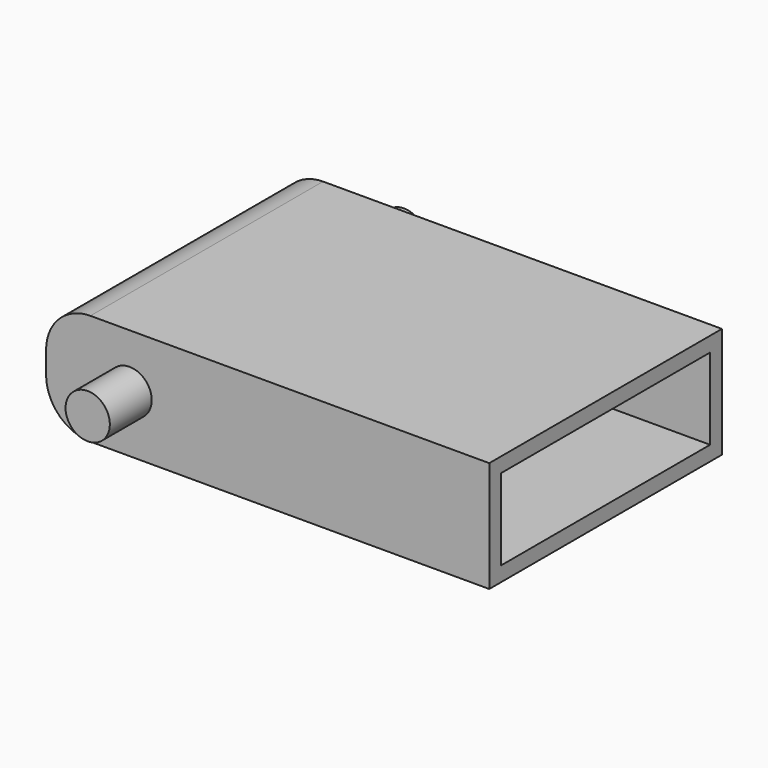
from build123d import *

# Parameters (mm, degrees)
F1_DEPTH = 50
F2_T     = -2.54
F3_R     = 3.81
F4_DEPTH = 9
F5_R     = 3.81
F6_DEPTH = 9


with BuildPart() as f1:
    # F0 (on Front) → F1 (new body)
    with BuildSketch(Plane.XZ):
        with BuildLine():
            Line((31.366751, 9.340362), (-37.213249, 9.340362))
            ThreePointArc((-37.213249, 9.340362), (-42.601402, 7.108516), (-44.833249, 1.720362))
            Line((-44.833249, 1.720362), (-44.833249, -2.089638))
            ThreePointArc((-44.833249, -2.089638), (-42.601402, -7.477792), (-37.213249, -9.709638))
            Line((-37.213249, -9.709638), (31.366751, -9.709638))
            Line((31.366751, -9.709638), (31.366751, 9.340362))
        make_face()
    extrude(amount=F1_DEPTH)

    # F2
    f2_openings = [f1.faces().sort_by_distance(p)[0] for p in [
        (31.366751, -25, -0.184638),
    ]]
    offset(amount=F2_T, openings=f2_openings)

    # F3 (on face) → F4 (join)
    with BuildSketch(Plane.XZ.offset(50)):
        with Locations((-30.48, 0)):
            Circle(F3_R)
    extrude(amount=F4_DEPTH)

    # F5 (on face) → F6 (join)
    with BuildSketch(Plane(origin=(0, 0, 0), x_dir=(-1, 0, 0), z_dir=(0, 1, 0))):
        with Locations((30.48, 0)):
            Circle(F5_R)
    extrude(amount=F6_DEPTH)


solid = f1.part
